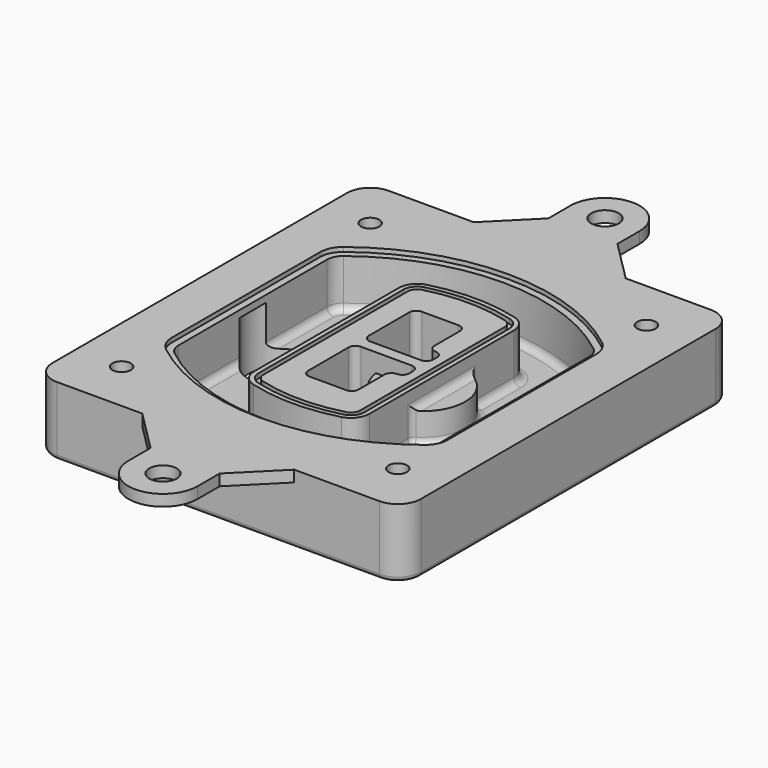
from build123d import *

# Parameters (mm, degrees)
F0_R      = 4
F1_DEPTH  = 25
F2_DEPTH  = 3
F3_DEPTH  = 18
F5_DEPTH  = 21
F6_DEPTH  = 2
F8_DEPTH  = 20
F9_DEPTH  = 16
F10_DEPTH = 25
F7_R      = 6
F7_R_2    = 4
F11_DEPTH = 6
F13_DEPTH = 9
F14_R     = 3
F15_R     = 2
F16_R     = 6
F16_R_2   = 4
F17_DEPTH = 4.9


with BuildPart() as f1:
    # F0 (on Top) → F1 (new body)
    with BuildSketch(Plane.XY):
        with BuildLine():
            ThreePointArc((-80, -80), (-77.0710678119, -87.0710678119), (-70, -90))
            Line((-70, -90), (70, -90))
            ThreePointArc((70, -90), (77.0710678119, -87.0710678119), (80, -80))
            Line((80, -80), (80, 80))
            ThreePointArc((80, 80), (77.0710678119, 87.0710678119), (70, 90))
            Line((70, 90), (-70, 90))
            ThreePointArc((-70, 90), (-77.0710678119, 87.0710678119), (-80, 80))
            Line((-80, 80), (-80, -80))
        make_face()
        with Locations((-60, -67.5)):
            Circle(F0_R, mode=Mode.SUBTRACT)
        with Locations((60, -67.5)):
            Circle(F0_R, mode=Mode.SUBTRACT)
        with Locations((-60, 67.5)):
            Circle(F0_R, mode=Mode.SUBTRACT)
        with BuildLine():
            ThreePointArc((-64, 40.2934422872), (-62.5820384798, 46.4328484224), (-58.6153846154, 51.3286200352))
            ThreePointArc((-58.6153846154, 51.3286200352), (0, 71.5), (58.6153846154, 51.3286200352))
            ThreePointArc((58.6153846154, 51.3286200352), (62.5820384798, 46.4328484224), (64, 40.2934422872))
            Line((64, 40.2934422872), (64, -40.2934422872))
            ThreePointArc((64, -40.2934422872), (62.5820384798, -46.4328484224), (58.6153846154, -51.3286200352))
            ThreePointArc((58.6153846154, -51.3286200352), (0, -71.5), (-58.6153846154, -51.3286200352))
            ThreePointArc((-58.6153846154, -51.3286200352), (-62.5820384798, -46.4328484224), (-64, -40.2934422872))
            Line((-64, -40.2934422872), (-64, 40.2934422872))
        make_face(mode=Mode.SUBTRACT)
        with Locations((60, 67.5)):
            Circle(F0_R, mode=Mode.SUBTRACT)
        with BuildLine():
            ThreePointArc((58.6153846154, 51.3286200352), (0, 71.5), (-58.6153846154, 51.3286200352))
            ThreePointArc((-58.6153846154, 51.3286200352), (-62.5820384798, 46.4328484224), (-64, 40.2934422872))
            Line((-64, 40.2934422872), (-64, -40.2934422872))
            ThreePointArc((-64, -40.2934422872), (-62.5820384798, -46.4328484224), (-58.6153846154, -51.3286200352))
            ThreePointArc((-58.6153846154, -51.3286200352), (0, -71.5), (58.6153846154, -51.3286200352))
            ThreePointArc((58.6153846154, -51.3286200352), (62.5820384798, -46.4328484224), (64, -40.2934422872))
            Line((64, -40.2934422872), (64, 40.2934422872))
            ThreePointArc((64, 40.2934422872), (62.5820384798, 46.4328484224), (58.6153846154, 51.3286200352))
        make_face()
        with BuildLine():
            Line((-60, -40.2934422872), (-60, 40.2934422872))
            ThreePointArc((-60, 40.2934422872), (-58.9871703427, 44.6787323838), (-56.1538461538, 48.1757121072))
            ThreePointArc((-56.1538461538, 48.1757121072), (0, 67.5), (56.1538461538, 48.1757121072))
            ThreePointArc((56.1538461538, 48.1757121072), (58.9871703427, 44.6787323838), (60, 40.2934422872))
            Line((60, 40.2934422872), (60, -40.2934422872))
            ThreePointArc((60, -40.2934422872), (58.9871703427, -44.6787323838), (56.1538461538, -48.1757121072))
            ThreePointArc((56.1538461538, -48.1757121072), (0, -67.5), (-56.1538461538, -48.1757121072))
            ThreePointArc((-56.1538461538, -48.1757121072), (-58.9871703427, -44.6787323838), (-60, -40.2934422872))
        make_face(mode=Mode.SUBTRACT)
        with BuildLine():
            ThreePointArc((-56.1538461538, 48.1757121072), (-58.9871703427, 44.6787323838), (-60, 40.2934422872))
            Line((-60, 40.2934422872), (-60, -40.2934422872))
            ThreePointArc((-60, -40.2934422872), (-58.9871703427, -44.6787323838), (-56.1538461538, -48.1757121072))
            ThreePointArc((-56.1538461538, -48.1757121072), (0, -67.5), (56.1538461538, -48.1757121072))
            ThreePointArc((56.1538461538, -48.1757121072), (58.9871703427, -44.6787323838), (60, -40.2934422872))
            Line((60, -40.2934422872), (60, 40.2934422872))
            ThreePointArc((60, 40.2934422872), (58.9871703427, 44.6787323838), (56.1538461538, 48.1757121072))
            ThreePointArc((56.1538461538, 48.1757121072), (0, 67.5), (-56.1538461538, 48.1757121072))
        make_face()
        with BuildLine():
            ThreePointArc((54.3076923077, 45.8110311612), (56.2910192399, 43.3631453548), (57, 40.2934422872))
            Line((57, 40.2934422872), (57, -40.2934422872))
            ThreePointArc((57, -40.2934422872), (56.2910192399, -43.3631453548), (54.3076923077, -45.8110311612))
            ThreePointArc((54.3076923077, -45.8110311612), (0, -64.5), (-54.3076923077, -45.8110311612))
            ThreePointArc((-54.3076923077, -45.8110311612), (-56.2910192399, -43.3631453548), (-57, -40.2934422872))
            Line((-57, -40.2934422872), (-57, 40.2934422872))
            ThreePointArc((-57, 40.2934422872), (-56.2910192399, 43.3631453548), (-54.3076923077, 45.8110311612))
            ThreePointArc((-54.3076923077, 45.8110311612), (0, 64.5), (54.3076923077, 45.8110311612))
        make_face(mode=Mode.SUBTRACT)
        with BuildLine():
            Line((57, -40.2934422872), (57, 40.2934422872))
            ThreePointArc((57, 40.2934422872), (56.2910192399, 43.3631453548), (54.3076923077, 45.8110311612))
            ThreePointArc((54.3076923077, 45.8110311612), (0, 64.5), (-54.3076923077, 45.8110311612))
            ThreePointArc((-54.3076923077, 45.8110311612), (-56.2910192399, 43.3631453548), (-57, 40.2934422872))
            Line((-57, 40.2934422872), (-57, -40.2934422872))
            ThreePointArc((-57, -40.2934422872), (-56.2910192399, -43.3631453548), (-54.3076923077, -45.8110311612))
            ThreePointArc((-54.3076923077, -45.8110311612), (0, -64.5), (54.3076923077, -45.8110311612))
            ThreePointArc((54.3076923077, -45.8110311612), (56.2910192399, -43.3631453548), (57, -40.2934422872))
        make_face()
    extrude(amount=-F1_DEPTH)

    # F0 (on Top) → F2 (join)
    with BuildSketch(Plane.XY):
        with BuildLine():
            ThreePointArc((-56.1538461538, 48.1757121072), (-58.9871703427, 44.6787323838), (-60, 40.2934422872))
            Line((-60, 40.2934422872), (-60, -40.2934422872))
            ThreePointArc((-60, -40.2934422872), (-58.9871703427, -44.6787323838), (-56.1538461538, -48.1757121072))
            ThreePointArc((-56.1538461538, -48.1757121072), (0, -67.5), (56.1538461538, -48.1757121072))
            ThreePointArc((56.1538461538, -48.1757121072), (58.9871703427, -44.6787323838), (60, -40.2934422872))
            Line((60, -40.2934422872), (60, 40.2934422872))
            ThreePointArc((60, 40.2934422872), (58.9871703427, 44.6787323838), (56.1538461538, 48.1757121072))
            ThreePointArc((56.1538461538, 48.1757121072), (0, 67.5), (-56.1538461538, 48.1757121072))
        make_face()
        with BuildLine():
            ThreePointArc((54.3076923077, 45.8110311612), (56.2910192399, 43.3631453548), (57, 40.2934422872))
            Line((57, 40.2934422872), (57, -40.2934422872))
            ThreePointArc((57, -40.2934422872), (56.2910192399, -43.3631453548), (54.3076923077, -45.8110311612))
            ThreePointArc((54.3076923077, -45.8110311612), (0, -64.5), (-54.3076923077, -45.8110311612))
            ThreePointArc((-54.3076923077, -45.8110311612), (-56.2910192399, -43.3631453548), (-57, -40.2934422872))
            Line((-57, -40.2934422872), (-57, 40.2934422872))
            ThreePointArc((-57, 40.2934422872), (-56.2910192399, 43.3631453548), (-54.3076923077, 45.8110311612))
            ThreePointArc((-54.3076923077, 45.8110311612), (0, 64.5), (54.3076923077, 45.8110311612))
        make_face(mode=Mode.SUBTRACT)
    extrude(amount=F2_DEPTH)

    # F0 (on Top) → F3 (cut)
    with BuildSketch(Plane.XY):
        with BuildLine():
            Line((57, -40.2934422872), (57, 40.2934422872))
            ThreePointArc((57, 40.2934422872), (56.2910192399, 43.3631453548), (54.3076923077, 45.8110311612))
            ThreePointArc((54.3076923077, 45.8110311612), (0, 64.5), (-54.3076923077, 45.8110311612))
            ThreePointArc((-54.3076923077, 45.8110311612), (-56.2910192399, 43.3631453548), (-57, 40.2934422872))
            Line((-57, 40.2934422872), (-57, -40.2934422872))
            ThreePointArc((-57, -40.2934422872), (-56.2910192399, -43.3631453548), (-54.3076923077, -45.8110311612))
            ThreePointArc((-54.3076923077, -45.8110311612), (0, -64.5), (54.3076923077, -45.8110311612))
            ThreePointArc((54.3076923077, -45.8110311612), (56.2910192399, -43.3631453548), (57, -40.2934422872))
        make_face()
    extrude(amount=-F3_DEPTH, mode=Mode.SUBTRACT)

    # F4 (on face) → F5 (join, through all)
    with BuildSketch(Plane.XY.offset(3)):
        with BuildLine():
            ThreePointArc((-25, -39.2465276821), (-23.3511545998, -44.1109737193), (-19.0842911877, -46.9702398883))
            ThreePointArc((-19.0842911877, -46.9702398883), (0, -49.5), (19.0842911877, -46.9702398883))
            ThreePointArc((19.0842911877, -46.9702398883), (23.3511545998, -44.1109737193), (25, -39.2465276821))
            Line((25, -39.2465276821), (25, 39.2465276821))
            ThreePointArc((25, 39.2465276821), (23.3511545998, 44.1109737193), (19.0842911877, 46.9702398883))
            ThreePointArc((19.0842911877, 46.9702398883), (0, 49.5), (-19.0842911877, 46.9702398883))
            ThreePointArc((-19.0842911877, 46.9702398883), (-23.3511545998, 44.1109737193), (-25, 39.2465276821))
            Line((-25, 39.2465276821), (-25, -39.2465276821))
        make_face()
        with BuildLine():
            ThreePointArc((18.5632183908, 45.0393118368), (21.7633659499, 42.89486221), (23, 39.2465276821))
            Line((23, 39.2465276821), (23, -39.2465276821))
            ThreePointArc((23, -39.2465276821), (21.7633659499, -42.89486221), (18.5632183908, -45.0393118368))
            ThreePointArc((18.5632183908, -45.0393118368), (0, -47.5), (-18.5632183908, -45.0393118368))
            ThreePointArc((-18.5632183908, -45.0393118368), (-21.7633659499, -42.89486221), (-23, -39.2465276821))
            Line((-23, -39.2465276821), (-23, 39.2465276821))
            ThreePointArc((-23, 39.2465276821), (-21.7633659499, 42.89486221), (-18.5632183908, 45.0393118368))
            ThreePointArc((-18.5632183908, 45.0393118368), (0, 47.5), (18.5632183908, 45.0393118368))
        make_face(mode=Mode.SUBTRACT)
        with BuildLine():
            Line((23, -39.2465276821), (23, 39.2465276821))
            ThreePointArc((23, 39.2465276821), (21.7633659499, 42.89486221), (18.5632183908, 45.0393118368))
            ThreePointArc((18.5632183908, 45.0393118368), (0, 47.5), (-18.5632183908, 45.0393118368))
            ThreePointArc((-18.5632183908, 45.0393118368), (-21.7633659499, 42.89486221), (-23, 39.2465276821))
            Line((-23, 39.2465276821), (-23, -39.2465276821))
            ThreePointArc((-23, -39.2465276821), (-21.7633659499, -42.89486221), (-18.5632183908, -45.0393118368))
            ThreePointArc((-18.5632183908, -45.0393118368), (0, -47.5), (18.5632183908, -45.0393118368))
            ThreePointArc((18.5632183908, -45.0393118368), (21.7633659499, -42.89486221), (23, -39.2465276821))
        make_face()
        with BuildLine():
            ThreePointArc((18.0421455939, 43.1083837852), (20.1755772999, 41.6787507007), (21, 39.2465276821))
            Line((21, 39.2465276821), (21, -39.2465276821))
            ThreePointArc((21, -39.2465276821), (20.1755772999, -41.6787507007), (18.0421455939, -43.1083837852))
            ThreePointArc((18.0421455939, -43.1083837852), (0, -45.5), (-18.0421455939, -43.1083837852))
            ThreePointArc((-18.0421455939, -43.1083837852), (-20.1755772999, -41.6787507007), (-21, -39.2465276821))
            Line((-21, -39.2465276821), (-21, 39.2465276821))
            ThreePointArc((-21, 39.2465276821), (-20.1755772999, 41.6787507007), (-18.0421455939, 43.1083837852))
            ThreePointArc((-18.0421455939, 43.1083837852), (0, 45.5), (18.0421455939, 43.1083837852))
        make_face(mode=Mode.SUBTRACT)
        with BuildLine():
            Line((21, -39.2465276821), (21, 39.2465276821))
            ThreePointArc((21, 39.2465276821), (20.1755772999, 41.6787507007), (18.0421455939, 43.1083837852))
            ThreePointArc((18.0421455939, 43.1083837852), (0, 45.5), (-18.0421455939, 43.1083837852))
            ThreePointArc((-18.0421455939, 43.1083837852), (-20.1755772999, 41.6787507007), (-21, 39.2465276821))
            Line((-21, 39.2465276821), (-21, -39.2465276821))
            ThreePointArc((-21, -39.2465276821), (-20.1755772999, -41.6787507007), (-18.0421455939, -43.1083837852))
            ThreePointArc((-18.0421455939, -43.1083837852), (0, -45.5), (18.0421455939, -43.1083837852))
            ThreePointArc((18.0421455939, -43.1083837852), (20.1755772999, -41.6787507007), (21, -39.2465276821))
        make_face()
        with BuildLine():
            Line((-8, -2.5), (14, -2.5))
            ThreePointArc((14, -2.5), (16.1213203436, -3.3786796564), (17, -5.5))
            Line((17, -5.5), (17, -7.5))
            ThreePointArc((17, -7.5), (16.1213203436, -9.6213203436), (14, -10.5))
            ThreePointArc((14, -10.5), (11.8786796564, -11.3786796564), (11, -13.5))
            Line((11, -13.5), (11, -27.5))
            ThreePointArc((11, -27.5), (10.1213203436, -29.6213203436), (8, -30.5))
            Line((8, -30.5), (-8, -30.5))
            ThreePointArc((-8, -30.5), (-10.1213203436, -29.6213203436), (-11, -27.5))
            Line((-11, -27.5), (-11, -5.5))
            ThreePointArc((-11, -5.5), (-10.1213203436, -3.3786796564), (-8, -2.5))
        make_face(mode=Mode.SUBTRACT)
        with BuildLine():
            ThreePointArc((-8, 2.5), (-10.1213203436, 3.3786796564), (-11, 5.5))
            Line((-11, 5.5), (-11, 27.5))
            ThreePointArc((-11, 27.5), (-10.1213203436, 29.6213203436), (-8, 30.5))
            Line((-8, 30.5), (8, 30.5))
            ThreePointArc((8, 30.5), (10.1213203436, 29.6213203436), (11, 27.5))
            Line((11, 27.5), (11, 13.5))
            ThreePointArc((11, 13.5), (11.8786796564, 11.3786796564), (14, 10.5))
            ThreePointArc((14, 10.5), (16.1213203436, 9.6213203436), (17, 7.5))
            Line((17, 7.5), (17, 5.5))
            ThreePointArc((17, 5.5), (16.1213203436, 3.3786796564), (14, 2.5))
            Line((14, 2.5), (-8, 2.5))
        make_face(mode=Mode.SUBTRACT)
    extrude(amount=-F5_DEPTH)

    # F4 (on face) → F6 (cut)
    with BuildSketch(Plane.XY.offset(3)):
        with BuildLine():
            Line((23, -39.2465276821), (23, 39.2465276821))
            ThreePointArc((23, 39.2465276821), (21.7633659499, 42.89486221), (18.5632183908, 45.0393118368))
            ThreePointArc((18.5632183908, 45.0393118368), (0, 47.5), (-18.5632183908, 45.0393118368))
            ThreePointArc((-18.5632183908, 45.0393118368), (-21.7633659499, 42.89486221), (-23, 39.2465276821))
            Line((-23, 39.2465276821), (-23, -39.2465276821))
            ThreePointArc((-23, -39.2465276821), (-21.7633659499, -42.89486221), (-18.5632183908, -45.0393118368))
            ThreePointArc((-18.5632183908, -45.0393118368), (0, -47.5), (18.5632183908, -45.0393118368))
            ThreePointArc((18.5632183908, -45.0393118368), (21.7633659499, -42.89486221), (23, -39.2465276821))
        make_face()
        with BuildLine():
            ThreePointArc((18.0421455939, 43.1083837852), (20.1755772999, 41.6787507007), (21, 39.2465276821))
            Line((21, 39.2465276821), (21, -39.2465276821))
            ThreePointArc((21, -39.2465276821), (20.1755772999, -41.6787507007), (18.0421455939, -43.1083837852))
            ThreePointArc((18.0421455939, -43.1083837852), (0, -45.5), (-18.0421455939, -43.1083837852))
            ThreePointArc((-18.0421455939, -43.1083837852), (-20.1755772999, -41.6787507007), (-21, -39.2465276821))
            Line((-21, -39.2465276821), (-21, 39.2465276821))
            ThreePointArc((-21, 39.2465276821), (-20.1755772999, 41.6787507007), (-18.0421455939, 43.1083837852))
            ThreePointArc((-18.0421455939, 43.1083837852), (0, 45.5), (18.0421455939, 43.1083837852))
        make_face(mode=Mode.SUBTRACT)
    extrude(amount=-F6_DEPTH, mode=Mode.SUBTRACT)

    # F7 (on face) → F8 (join)
    with BuildSketch(Plane(origin=(0, 0, -25), x_dir=(1, 0, 0), z_dir=(0, 0, -1))):
        with BuildLine():
            ThreePointArc((3.28842436, 0), (16.7567035675, 13.4682792075), (30.224982775, 0))
            Line((30.224982775, 0), (35.224982775, 0))
            ThreePointArc((35.224982775, 0), (16.7567035675, 18.4682792075), (-1.71157564, 0))
            Line((-1.71157564, 0), (3.28842436, 0))
        make_face()
        with BuildLine():
            Line((3.28842436, 0), (30.224982775, 0))
            ThreePointArc((30.224982775, 0), (16.7567035675, 13.4682792075), (3.28842436, 0))
        make_face()
        with BuildLine():
            ThreePointArc((3.28842436, 0), (16.7567035675, -13.4682792075), (30.224982775, 0))
            Line((30.224982775, 0), (3.28842436, 0))
        make_face()
        with BuildLine():
            Line((35.224982775, 0), (30.224982775, 0))
            ThreePointArc((30.224982775, 0), (16.7567035675, -13.4682792075), (3.28842436, 0))
            Line((3.28842436, 0), (-1.71157564, 0))
            ThreePointArc((-1.71157564, 0), (16.7567035675, -18.4682792075), (35.224982775, 0))
        make_face()
    extrude(amount=-F8_DEPTH)

    # F7 (on face) → F9 (cut)
    with BuildSketch(Plane(origin=(0, 0, -25), x_dir=(1, 0, 0), z_dir=(0, 0, -1))):
        with BuildLine():
            Line((3.28842436, 0), (30.224982775, 0))
            ThreePointArc((30.224982775, 0), (16.7567035675, 13.4682792075), (3.28842436, 0))
        make_face()
        with BuildLine():
            ThreePointArc((3.28842436, 0), (16.7567035675, -13.4682792075), (30.224982775, 0))
            Line((30.224982775, 0), (3.28842436, 0))
        make_face()
    extrude(amount=-F9_DEPTH, mode=Mode.SUBTRACT)

    # F7 (on face) → F10 (cut)
    with BuildSketch(Plane(origin=(0, 0, -25), x_dir=(1, 0, 0), z_dir=(0, 0, -1))):
        with BuildLine():
            Line((-59.0318229325, 0), (-32.0952645175, 0))
            ThreePointArc((-32.0952645175, 0), (-45.563543725, 13.4682792075), (-59.0318229325, 0))
        make_face()
        with BuildLine():
            ThreePointArc((-59.0318229325, 0), (-45.563543725, -13.4682792075), (-32.0952645175, 0))
            Line((-32.0952645175, 0), (-59.0318229325, 0))
        make_face()
    extrude(amount=-F10_DEPTH, mode=Mode.SUBTRACT)

    # F7 (on face) → F11 (cut)
    with BuildSketch(Plane(origin=(0, 0, -25), x_dir=(1, 0, 0), z_dir=(0, 0, -1))):
        with Locations((60, -67.5)):
            Circle(F7_R)
        with Locations((60, -67.5)):
            Circle(F7_R_2, mode=Mode.SUBTRACT)
        with Locations((60, -67.5)):
            Circle(F7_R)
        with Locations((60, -67.5)):
            Circle(F7_R_2, mode=Mode.SUBTRACT)
        with Locations((-60, -67.5)):
            Circle(F7_R)
        with Locations((-60, -67.5)):
            Circle(F7_R_2, mode=Mode.SUBTRACT)
        with Locations((-60, -67.5)):
            Circle(F7_R)
        with Locations((-60, -67.5)):
            Circle(F7_R_2, mode=Mode.SUBTRACT)
        with Locations((-60, 67.5)):
            Circle(F7_R)
        with Locations((-60, 67.5)):
            Circle(F7_R_2, mode=Mode.SUBTRACT)
        with Locations((-60, 67.5)):
            Circle(F7_R)
        with Locations((-60, 67.5)):
            Circle(F7_R_2, mode=Mode.SUBTRACT)
        with Locations((60, 67.5)):
            Circle(F7_R)
        with Locations((60, 67.5)):
            Circle(F7_R_2, mode=Mode.SUBTRACT)
        with Locations((60, 67.5)):
            Circle(F7_R)
        with Locations((60, 67.5)):
            Circle(F7_R_2, mode=Mode.SUBTRACT)
    extrude(amount=-F11_DEPTH, mode=Mode.SUBTRACT)

    # F12 (on face) → F13 (cut, through all)
    with BuildSketch(Plane(origin=(0, 0, -9), x_dir=(1, 0, 0), z_dir=(0, 0, -1))):
        with BuildLine():
            Line((11, 13.5), (11, 17.5481537753))
            ThreePointArc((11, 17.5481537753), (2.5696536419, 11.8239143813), (-1.5415842455, 2.5))
            Line((-1.5415842455, 2.5), (3.5224848595, 2.5))
            ThreePointArc((3.5224848595, 2.5), (6.1857188154, 8.3455872281), (11.2536447004, 12.2927168648))
            ThreePointArc((11.2536447004, 12.2927168648), (11.0640958889, 12.8831798879), (11, 13.5))
        make_face()
        with BuildLine():
            ThreePointArc((11.2536447004, -12.2927168648), (6.1857188154, -8.3455872281), (3.5224848595, -2.5))
            Line((3.5224848595, -2.5), (-1.5415842455, -2.5))
            ThreePointArc((-1.5415842455, -2.5), (2.5696536419, -11.8239143813), (11, -17.5481537753))
            Line((11, -17.5481537753), (11, -13.5))
            ThreePointArc((11, -13.5), (11.0640958889, -12.8831798879), (11.2536447004, -12.2927168648))
        make_face()
        with BuildLine():
            ThreePointArc((11.2536447004, 12.2927168648), (6.1857188154, 8.3455872281), (3.5224848595, 2.5))
            Line((3.5224848595, 2.5), (14, 2.5))
            ThreePointArc((14, 2.5), (16.1213203436, 3.3786796564), (17, 5.5))
            Line((17, 5.5), (17, 7.5))
            ThreePointArc((17, 7.5), (16.1213203436, 9.6213203436), (14, 10.5))
            ThreePointArc((14, 10.5), (12.3601599782, 10.9878446101), (11.2536447004, 12.2927168648))
        make_face()
        with BuildLine():
            Line((14, -2.5), (3.5224848595, -2.5))
            ThreePointArc((3.5224848595, -2.5), (6.1857188154, -8.3455872281), (11.2536447004, -12.2927168648))
            ThreePointArc((11.2536447004, -12.2927168648), (12.3601599782, -10.9878446101), (14, -10.5))
            ThreePointArc((14, -10.5), (16.1213203436, -9.6213203436), (17, -7.5))
            Line((17, -7.5), (17, -5.5))
            ThreePointArc((17, -5.5), (16.1213203436, -3.3786796564), (14, -2.5))
        make_face()
    extrude(amount=F13_DEPTH, mode=Mode.SUBTRACT)

    # F14
    f14_edges = [f1.edges().sort_by_distance(p)[0] for p in [
        (-57, -23.703476, -18),
        (-57, 23.703476, -18),
        (25, 0, -5),
        (25, 16.526506, -11.5),
        (25, -16.526506, -11.5),
        (25, -27.886517, -18),
        (35.224983, 0, -18),
    ]]
    fillet(f14_edges, radius=F14_R)

    # F15
    f15_edges = [f1.edges().sort_by_distance(p)[0] for p in [
        (0, -90, -25),
    ]]
    fillet(f15_edges, radius=F15_R)

    # F16 (on face) → F17 (join)
    with BuildSketch(Plane.XY):
        with BuildLine():
            Line((32.8387878835, -90), (-33, -90))
            Line((-33, -90), (-15, -108))
            Line((-15, -108), (-15, -120))
            ThreePointArc((-15, -120), (0, -135), (15, -120))
            Line((15, -120), (15, -108))
            Line((15, -108), (33, -90))
            Line((33, -90), (32.8387878835, -90))
        make_face()
        with Locations((0, -120)):
            Circle(F16_R, mode=Mode.SUBTRACT)
        with BuildLine():
            Line((32.8387878835, 90), (-33, 90))
            Line((-33, 90), (-70, 90))
            ThreePointArc((-70, 90), (-77.0710678119, 87.0710678119), (-80, 80))
            Line((-80, 80), (-80, -80))
            ThreePointArc((-80, -80), (-77.0710678119, -87.0710678119), (-70, -90))
            Line((-70, -90), (-33, -90))
            Line((-33, -90), (32.8387878835, -90))
            Line((32.8387878835, -90), (33, -90))
            Line((33, -90), (70, -90))
            ThreePointArc((70, -90), (77.0710678119, -87.0710678119), (80, -80))
            Line((80, -80), (80, 80))
            ThreePointArc((80, 80), (77.0710678119, 87.0710678119), (70, 90))
            Line((70, 90), (33, 90))
            Line((33, 90), (32.8387878835, 90))
        make_face()
        with Locations((-60, -67.5)):
            Circle(F16_R_2, mode=Mode.SUBTRACT)
        with Locations((60, -67.5)):
            Circle(F16_R_2, mode=Mode.SUBTRACT)
        with Locations((-60, 67.5)):
            Circle(F16_R_2, mode=Mode.SUBTRACT)
        with BuildLine():
            ThreePointArc((-60, 40.2934422872), (-58.9871703427, 44.6787323838), (-56.1538461538, 48.1757121072))
            ThreePointArc((-56.1538461538, 48.1757121072), (0, 67.5), (56.1538461538, 48.1757121072))
            ThreePointArc((56.1538461538, 48.1757121072), (58.9871703427, 44.6787323838), (60, 40.2934422872))
            Line((60, 40.2934422872), (60, -40.2934422872))
            ThreePointArc((60, -40.2934422872), (58.9871703427, -44.6787323838), (56.1538461538, -48.1757121072))
            ThreePointArc((56.1538461538, -48.1757121072), (0, -67.5), (-56.1538461538, -48.1757121072))
            ThreePointArc((-56.1538461538, -48.1757121072), (-58.9871703427, -44.6787323838), (-60, -40.2934422872))
            Line((-60, -40.2934422872), (-60, 40.2934422872))
        make_face(mode=Mode.SUBTRACT)
        with Locations((60, 67.5)):
            Circle(F16_R_2, mode=Mode.SUBTRACT)
        with BuildLine():
            Line((-15, 120), (-15, 108))
            Line((-15, 108), (-33, 90))
            Line((-33, 90), (32.8387878835, 90))
            Line((32.8387878835, 90), (33, 90))
            Line((33, 90), (15, 108))
            Line((15, 108), (15, 120))
            ThreePointArc((15, 120), (0, 135), (-15, 120))
        make_face()
        with Locations((0, 120)):
            Circle(F16_R, mode=Mode.SUBTRACT)
    extrude(amount=F17_DEPTH)


solid = f1.part
